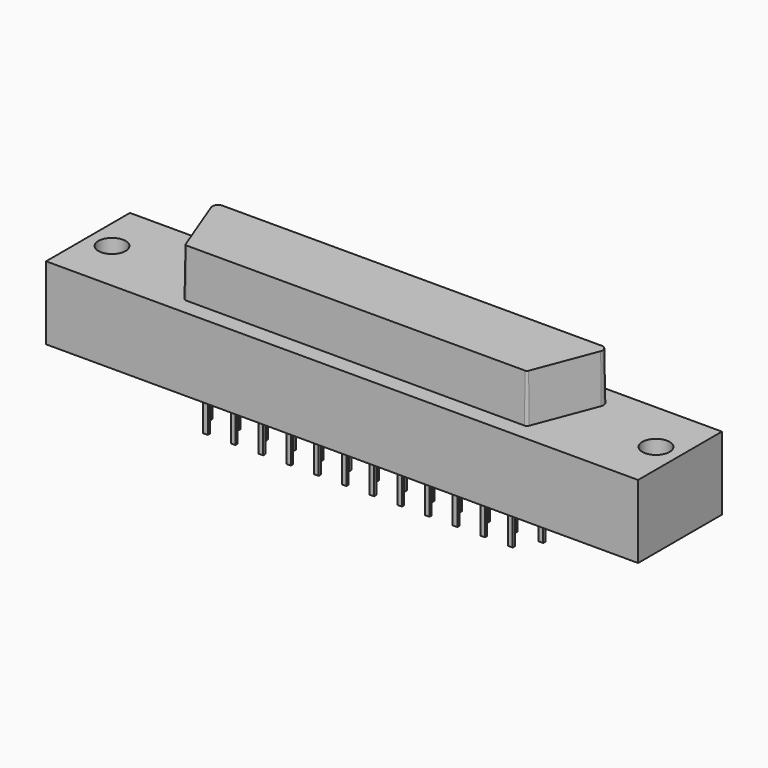
from build123d import *

# Parameters (mm, degrees)
F0_W     = 54.24
F0_H     = 9.6
F0_R     = 1.25
F1_DEPTH = 3.35
F3_DEPTH = 4.4
F3_TAPER = 1
F4_W     = 0.42
F4_H     = 0.25
F5_DEPTH = 3.7


with BuildPart() as f1:
    # F0 (on Top) → F1 (new body, symmetric)
    with BuildSketch(Plane.XY):
        Rectangle(F0_W, F0_H)
        with Locations((-24.92, 0)):
            Circle(F0_R, mode=Mode.SUBTRACT)
        with Locations((24.92, 0)):
            Circle(F0_R, mode=Mode.SUBTRACT)
    extrude(amount=F1_DEPTH, both=True)

    # F2 (on face) → F3 (join)
    with BuildSketch(Plane.XY.offset(3.35)):
        with BuildLine():
            Line((17.355, 3.2937057813), (-17.355, 3.2937057813))
            ThreePointArc((-17.355, 3.2937057813), (-17.8492937829, 3.0338140821), (-17.9153780618, 2.4792846354))
            Line((-17.9153780618, 2.4792846354), (-15.7801890309, -3.1009163543))
            ThreePointArc((-15.7801890309, -3.1009163543), (-15.6700541504, -3.2408526728), (-15.5, -3.2937057813))
            Line((-15.5, -3.2937057813), (15.5, -3.2937057813))
            ThreePointArc((15.5, -3.2937057813), (15.6700541504, -3.2408526728), (15.7801890309, -3.1009163543))
            Line((15.7801890309, -3.1009163543), (17.9153780618, 2.4792846354))
            ThreePointArc((17.9153780618, 2.4792846354), (17.8492937829, 3.0338140821), (17.355, 3.2937057813))
        make_face()
    extrude(amount=F3_DEPTH, taper=F3_TAPER)

    # F4 (on face) → F5 (join)
    with BuildSketch(Plane(origin=(0, 0, -3.35), x_dir=(1, 0, 0), z_dir=(0, 0, -1))):
        with Locations((-15.24, -2.8575)):
            Rectangle(F4_W, F4_H)
        with Locations((-12.7, -2.8575)):
            Rectangle(F4_W, F4_H)
        with Locations((-10.16, -2.8575)):
            Rectangle(F4_W, F4_H)
        with Locations((-7.62, -2.8575)):
            Rectangle(F4_W, F4_H)
        with Locations((-5.08, -2.8575)):
            Rectangle(F4_W, F4_H)
        with Locations((-2.54, -2.8575)):
            Rectangle(F4_W, F4_H)
        with Locations((0, -2.8575)):
            Rectangle(F4_W, F4_H)
        with Locations((2.54, -2.8575)):
            Rectangle(F4_W, F4_H)
        with Locations((5.08, -2.8575)):
            Rectangle(F4_W, F4_H)
        with Locations((7.62, -2.8575)):
            Rectangle(F4_W, F4_H)
        with Locations((10.16, -2.8575)):
            Rectangle(F4_W, F4_H)
        with Locations((12.7, -2.8575)):
            Rectangle(F4_W, F4_H)
        with Locations((15.24, -2.8575)):
            Rectangle(F4_W, F4_H)
        with Locations((-13.97, -0.9525)):
            Rectangle(F4_W, F4_H)
        with Locations((-11.43, -0.9525)):
            Rectangle(F4_W, F4_H)
        with Locations((-8.89, -0.9525)):
            Rectangle(F4_W, F4_H)
        with Locations((-6.35, -0.9525)):
            Rectangle(F4_W, F4_H)
        with Locations((-3.81, -0.9525)):
            Rectangle(F4_W, F4_H)
        with Locations((-1.27, -0.9525)):
            Rectangle(F4_W, F4_H)
        with Locations((1.27, -0.9525)):
            Rectangle(F4_W, F4_H)
        with Locations((3.81, -0.9525)):
            Rectangle(F4_W, F4_H)
        with Locations((6.35, -0.9525)):
            Rectangle(F4_W, F4_H)
        with Locations((8.89, -0.9525)):
            Rectangle(F4_W, F4_H)
        with Locations((11.43, -0.9525)):
            Rectangle(F4_W, F4_H)
        with Locations((13.97, -0.9525)):
            Rectangle(F4_W, F4_H)
        with Locations((8.89, 2.8574960104)):
            Rectangle(F4_W, F4_H)
        with Locations((1.27, 2.8574960104)):
            Rectangle(F4_W, F4_H)
        with Locations((15.24, 0.9524960104)):
            Rectangle(F4_W, F4_H)
        with Locations((11.43, 2.8574960104)):
            Rectangle(F4_W, F4_H)
        with Locations((-3.81, 2.8574960104)):
            Rectangle(F4_W, F4_H)
        with Locations((-2.54, 0.9524960104)):
            Rectangle(F4_W, F4_H)
        with Locations((10.16, 0.9524960104)):
            Rectangle(F4_W, F4_H)
        with Locations((2.54, 0.9524960104)):
            Rectangle(F4_W, F4_H)
        with Locations((12.7, 0.9524960104)):
            Rectangle(F4_W, F4_H)
        with Locations((13.97, 2.8574960104)):
            Rectangle(F4_W, F4_H)
        with Locations((0, 0.9524960104)):
            Rectangle(F4_W, F4_H)
        with Locations((-1.27, 2.8574960104)):
            Rectangle(F4_W, F4_H)
        with Locations((7.62, 0.9524960104)):
            Rectangle(F4_W, F4_H)
        with Locations((-8.89, 2.8574960104)):
            Rectangle(F4_W, F4_H)
        with Locations((-7.62, 0.9524960104)):
            Rectangle(F4_W, F4_H)
        with Locations((5.08, 0.9524960104)):
            Rectangle(F4_W, F4_H)
        with Locations((-5.08, 0.9524960104)):
            Rectangle(F4_W, F4_H)
        with Locations((6.35, 2.8574960104)):
            Rectangle(F4_W, F4_H)
        with Locations((3.81, 2.8574960104)):
            Rectangle(F4_W, F4_H)
        with Locations((-6.35, 2.8574960104)):
            Rectangle(F4_W, F4_H)
        with Locations((-10.16, 0.9524960104)):
            Rectangle(F4_W, F4_H)
        with Locations((-15.24, 0.9524960104)):
            Rectangle(F4_W, F4_H)
        with Locations((-13.97, 2.8574960104)):
            Rectangle(F4_W, F4_H)
        with Locations((-11.43, 2.8574960104)):
            Rectangle(F4_W, F4_H)
        with Locations((-12.7, 0.9524960104)):
            Rectangle(F4_W, F4_H)
    extrude(amount=F5_DEPTH)


solid = f1.part
